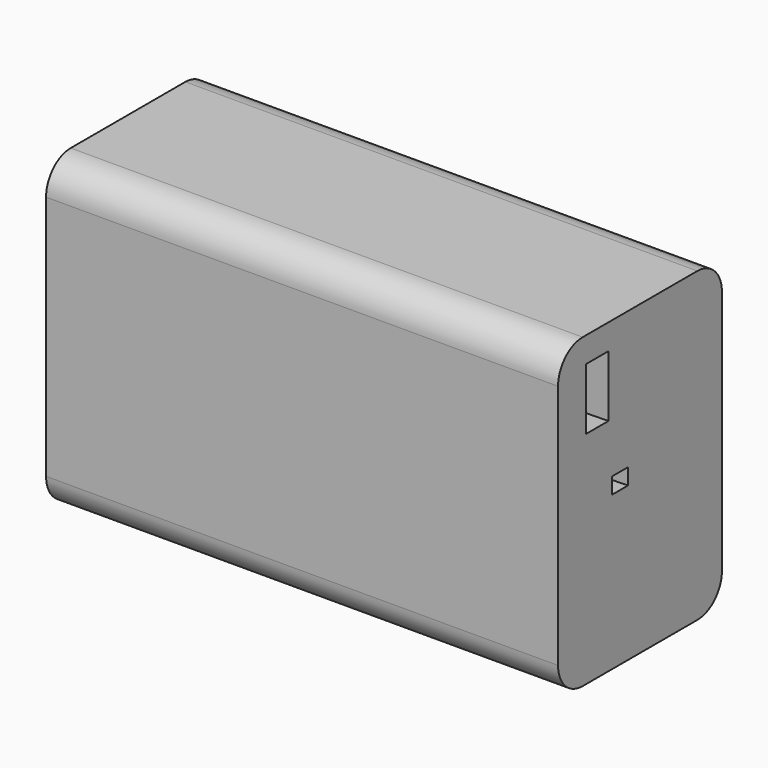
from build123d import *

# Parameters (mm, degrees)
F0_W     = 127
F0_H     = 76.2
F1_DEPTH = 50.8
F2_R     = 7.62
F3_W     = 7
F3_H     = 15.2537040412
F4_DEPTH = 16.4084
F4_TAPER = -3
F5_W     = 5
F5_H     = 4.0000001475
F6_DEPTH = 11.938
F6_TAPER = -3


with BuildPart() as f1:
    # F0 (on Front) → F1 (new body)
    with BuildSketch(Plane.XZ):
        Rectangle(F0_W, F0_H)
    extrude(amount=F1_DEPTH)

    # F2
    f2_edges = [f1.edges().sort_by_distance(p)[0] for p in [
        (0, -50.8, 38.1),
        (0, 0, 38.1),
        (0, -50.8, -38.1),
        (0, 0, -38.1),
    ]]
    fillet(f2_edges, radius=F2_R)

    # F3 (on face) → F4 (cut)
    with BuildSketch(Plane.YZ.offset(63.5)):
        with Locations((-38.6635434031, 24.1756830364)):
            Rectangle(F3_W, F3_H)
    extrude(amount=-F4_DEPTH, taper=F4_TAPER, mode=Mode.SUBTRACT)

    # F5 (on face) → F6 (cut)
    with BuildSketch(Plane.YZ.offset(63.5)):
        with Locations((-31.6249994836, 2.0000000738)):
            Rectangle(F5_W, F5_H)
    extrude(amount=-F6_DEPTH, taper=F6_TAPER, mode=Mode.SUBTRACT)


solid = f1.part
